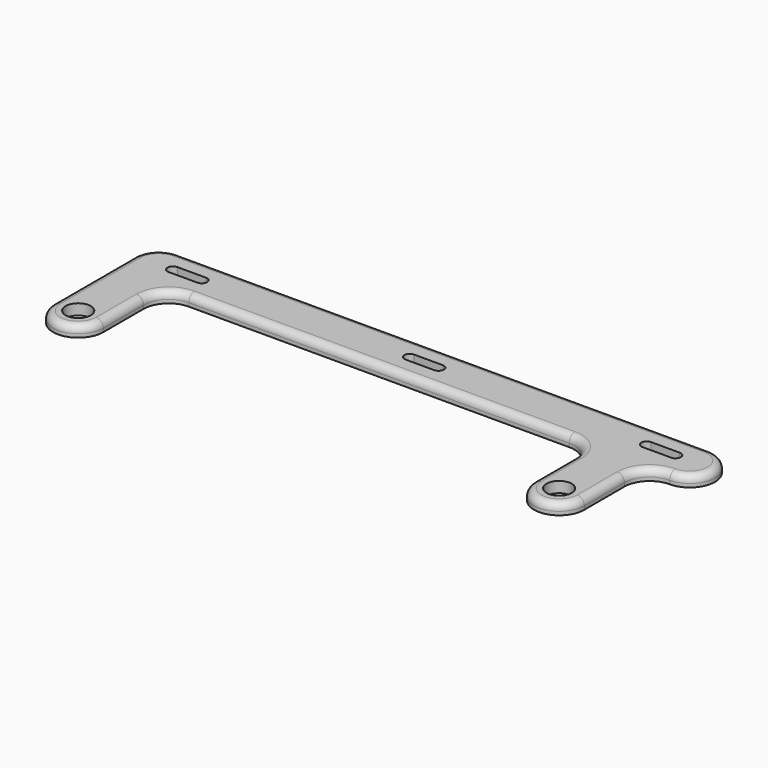
from build123d import *

# Parameters (mm, degrees)
SKETCH_R  = 1.75
PAD_DEPTH = 1.5
FILLET_R  = 1


with BuildPart() as part:
    # Sketch → Pad (new body)
    with BuildSketch(Plane.XY):
        with BuildLine():
            ThreePointArc((0, 3.5), (3.5, 0), (7, 3.5))
            Line((7, 3.5), (7, 10.5))
            ThreePointArc((10.5, 14), (8.025126, 12.974874), (7, 10.5))
            Line((10.5, 14), (63.5, 14))
            ThreePointArc((67, 10.5), (65.974874, 12.974874), (63.5, 14))
            Line((67, 3.5), (67, 10.5))
            ThreePointArc((67, 3.5), (70.5, 0), (74, 3.5))
            Line((74, 3.5), (74, 10.5))
            ThreePointArc((77.5, 14), (75.025126, 12.974874), (74, 10.5))
            ThreePointArc((77.5, 14), (81, 17.5), (77.5, 21))
            Line((3.5, 21), (77.5, 21))
            ThreePointArc((3.5, 21), (1.025126, 19.974874), (0, 17.5))
            Line((0, 3.5), (0, 17.5))
        make_face()
        with Locations((3.5, 3.5)):
            Circle(SKETCH_R, mode=Mode.SUBTRACT)
        with Locations((70.5, 3.5)):
            Circle(SKETCH_R, mode=Mode.SUBTRACT)
        with BuildLine():
            ThreePointArc((5.5, 18.25), (4.75, 17.5), (5.5, 16.75))
            Line((5.5, 16.75), (9.5, 16.75))
            ThreePointArc((9.5, 16.75), (10.25, 17.5), (9.5, 18.25))
            Line((9.5, 18.25), (5.5, 18.25))
        make_face(mode=Mode.SUBTRACT)
        with BuildLine():
            ThreePointArc((38.5, 18.25), (37.75, 17.5), (38.5, 16.75))
            Line((38.5, 16.75), (42.5, 16.75))
            ThreePointArc((42.5, 16.75), (43.25, 17.5), (42.5, 18.25))
            Line((42.5, 18.25), (38.5, 18.25))
        make_face(mode=Mode.SUBTRACT)
        with BuildLine():
            ThreePointArc((71.5, 18.25), (70.75, 17.5), (71.5, 16.75))
            Line((71.5, 16.75), (75.5, 16.75))
            ThreePointArc((75.5, 16.75), (76.25, 17.5), (75.5, 18.25))
            Line((75.5, 18.25), (71.5, 18.25))
        make_face(mode=Mode.SUBTRACT)
    extrude(amount=PAD_DEPTH)

    # Fillet
    fillet_edges = [part.edges().sort_by_distance(p)[0] for p in [
        (3.5, 0, 1.5),
    ]]
    fillet(fillet_edges, radius=FILLET_R)


solid = part.part
